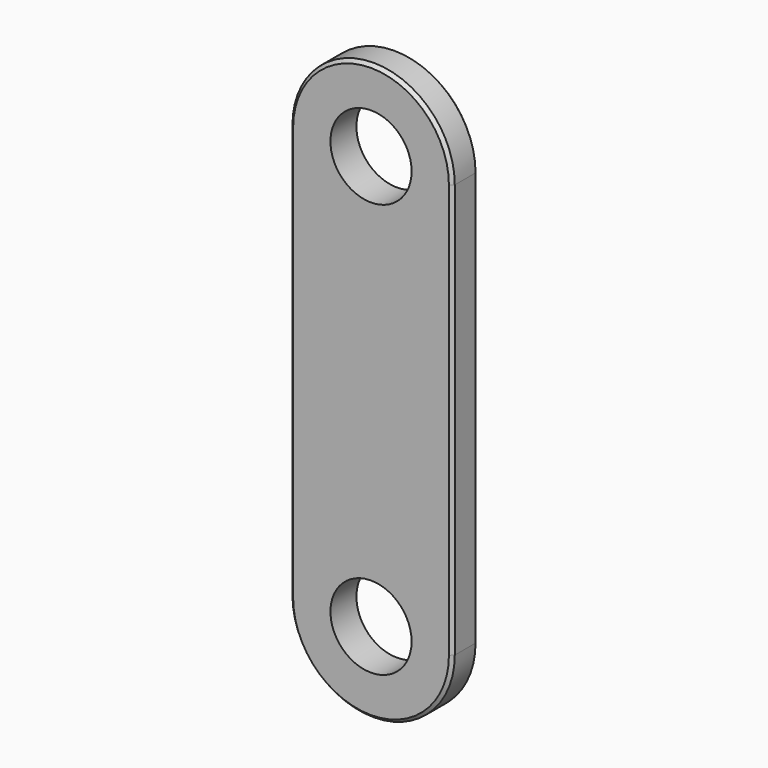
from build123d import *

# Parameters (mm, degrees)
F0_R     = 25
F1_DEPTH = 20
F2_SIZE2 = 2
F2_SIZE  = 2


with BuildPart() as f1:
    # F0 (on Front) → F1 (new body)
    with BuildSketch(Plane.XZ):
        with BuildLine():
            ThreePointArc((50, 0), (0, 50), (-50, 0))
            Line((-50, 0), (-50, -255))
            ThreePointArc((-50, -255), (0, -305), (50, -255))
            Line((50, -255), (50, 0))
        make_face()
        with Locations((0, -255)):
            Circle(F0_R, mode=Mode.SUBTRACT)
        Circle(F0_R, mode=Mode.SUBTRACT)
    extrude(amount=F1_DEPTH)

    # F2
    f2_edges = [f1.edges().sort_by_distance(p)[0] for p in [
        (-50, -20, -127.5),
        (0, -20, 50),
        (50, -20, -127.5),
        (0, -20, -305),
        (0, 0, -305),
        (-50, 0, -127.5),
        (0, 0, 50),
        (50, 0, -127.5),
    ]]
    chamfer(f2_edges, length=F2_SIZE, length2=F2_SIZE2)


solid = f1.part
